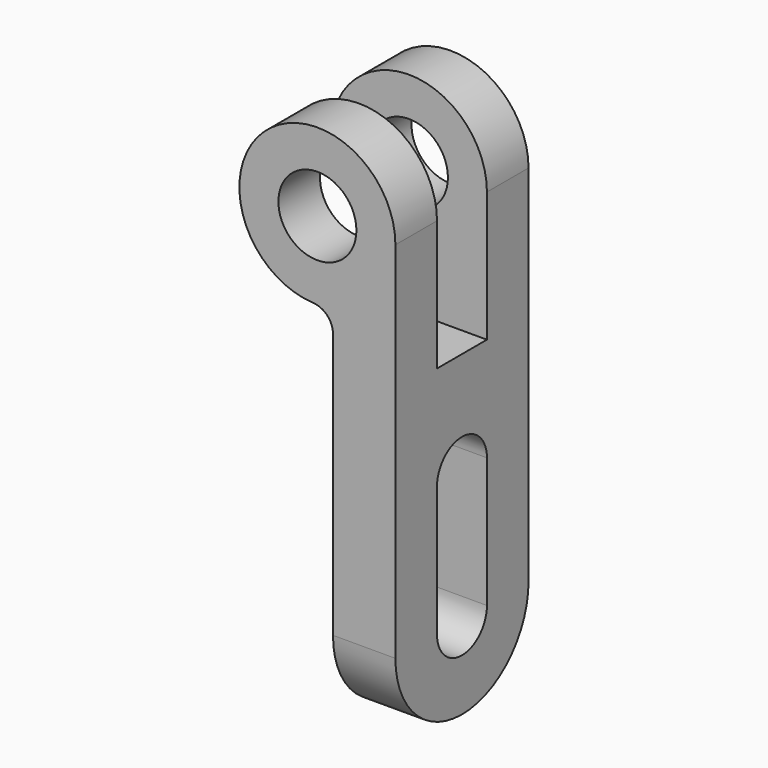
from build123d import *

# Parameters (mm, degrees)
F0_R     = 7.5
F1_DEPTH = 16
F3_W     = 12
F3_H     = 39.696938
F3_H_2   = 10.303062
F4_DEPTH = 40.001
F5_R     = 4


with BuildPart() as f1:
    # F0 (on Front) → F1 (new body, symmetric)
    with BuildSketch(Plane.XZ):
        with BuildLine():
            Line((15, -86), (15, 0))
            ThreePointArc((15, 0), (-11.61895, 9.486833), (3, -14.696938))
            Line((3, -14.696938), (3, -86))
            Line((3, -86), (15, -86))
        make_face()
        Circle(F0_R, mode=Mode.SUBTRACT)
    extrude(amount=F1_DEPTH, both=True)

    # F3 (on offset) → F4 (cut, through all)
    with BuildSketch(Plane.YZ.offset(-25)):
        with Locations((0, 5.151531)):
            Rectangle(F3_W, F3_H)
        with Locations((0, -19.848469)):
            Rectangle(F3_W, F3_H_2)
        with BuildLine():
            ThreePointArc((0, -86), (-11.313709, -81.313708), (-16, -70))
            Line((-16, -70), (-16, -86))
            Line((-16, -86), (0, -86))
        make_face()
        with BuildLine():
            Line((16, -86), (16, -70))
            ThreePointArc((16, -70), (11.313708, -81.313709), (0, -86))
            Line((0, -86), (16, -86))
        make_face()
        with BuildLine():
            Line((6, -70), (6, -45))
            ThreePointArc((6, -45), (0, -39), (-6, -45))
            Line((-6, -45), (-6, -70))
            ThreePointArc((-6, -70), (0, -76), (6, -70))
        make_face()
    extrude(amount=F4_DEPTH, mode=Mode.SUBTRACT)

    # F5
    f5_edges = [f1.edges().sort_by_distance(p)[0] for p in [
        (3, 11, -14.696938),
        (3, -11, -14.696938),
    ]]
    fillet(f5_edges, radius=F5_R)


solid = f1.part
